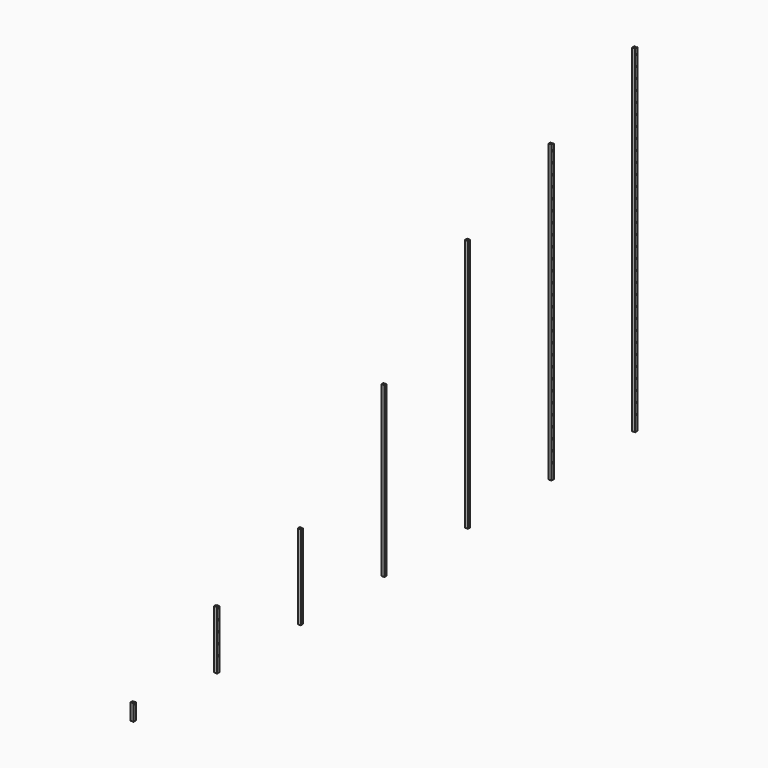
from build123d import *

# Parameters (mm, degrees)
F0_W      = 19.0000128
F0_H      = 1710.000009
F0_R      = 3.999992
F1_DEPTH  = 20.193
F0_W_2    = 18.9999874
F0_H_2    = 1994.9999978
F0_H_3    = 2280.000012
F0_H_4    = 570.000003
F0_H_5    = 1140.000006
F0_H_6    = 394.9999974
F2_W      = 6.999986
F2_H      = 16.9999914
F2_W_2    = 7.0000114
F3_DEPTH  = 2280.2509988
F4_W      = 7.0388015828
F4_H      = 16.9999914
F4_W_2    = 7.0000114
F5_DEPTH  = 2280.001012
F6_W      = 7.0007984995
F6_H      = 16.9999914
F6_W_2    = 7.0000114
F7_DEPTH  = 2280.001012
F8_W      = 7.0076418577
F8_H      = 16.9999914
F8_W_2    = 7.0000114
F9_DEPTH  = 2280.001012
F11_W     = 7.0388015828
F11_H     = 16.9999914
F11_W_2   = 7.0000114
F12_DEPTH = 2280.001012
F13_W     = 7.0388015828
F13_H     = 16.9999914
F13_W_2   = 7.0000114
F14_DEPTH = 2280.001012
F15_W     = 7.0388015828
F15_H     = 16.9999914
F15_W_2   = 7.0000114
F16_DEPTH = 2280.001012


with BuildPart() as f1:
    # F0 (on Right) → F1 (new body)
    with BuildSketch(Plane.YZ):
        with Locations((220.6641764, 629.9999973)):
            Rectangle(F0_W, F0_H)
        with Locations((221.6641744, -122.00001)):
            Circle(F0_R, mode=Mode.SUBTRACT)
        with Locations((221.6641744, -50.7500128)):
            Circle(F0_R, mode=Mode.SUBTRACT)
        with Locations((221.6641744, 20.4999844)):
            Circle(F0_R, mode=Mode.SUBTRACT)
        with Locations((221.6641744, 91.7499816)):
            Circle(F0_R, mode=Mode.SUBTRACT)
        with Locations((221.6641744, 163.0000042)):
            Circle(F0_R, mode=Mode.SUBTRACT)
        with Locations((221.6641744, 234.2500014)):
            Circle(F0_R, mode=Mode.SUBTRACT)
        with Locations((221.6641744, 305.4999986)):
            Circle(F0_R, mode=Mode.SUBTRACT)
        with Locations((221.6641744, 376.7499958)):
            Circle(F0_R, mode=Mode.SUBTRACT)
        with Locations((221.6641744, 447.999993)):
            Circle(F0_R, mode=Mode.SUBTRACT)
        with Locations((221.6641744, 519.2499902)):
            Circle(F0_R, mode=Mode.SUBTRACT)
        with Locations((221.6641744, 590.4999874)):
            Circle(F0_R, mode=Mode.SUBTRACT)
        with Locations((221.6641744, 661.7499846)):
            Circle(F0_R, mode=Mode.SUBTRACT)
        with Locations((221.6641744, 732.9999818)):
            Circle(F0_R, mode=Mode.SUBTRACT)
        with Locations((221.6641744, 804.2500044)):
            Circle(F0_R, mode=Mode.SUBTRACT)
        with Locations((221.6641744, 875.5000016)):
            Circle(F0_R, mode=Mode.SUBTRACT)
        with Locations((221.6641744, 946.7499988)):
            Circle(F0_R, mode=Mode.SUBTRACT)
        with Locations((221.6641744, 1017.999996)):
            Circle(F0_R, mode=Mode.SUBTRACT)
        with Locations((221.6641744, 1089.2499932)):
            Circle(F0_R, mode=Mode.SUBTRACT)
        with Locations((221.6641744, 1160.4999904)):
            Circle(F0_R, mode=Mode.SUBTRACT)
        with Locations((221.6641744, 1231.7499876)):
            Circle(F0_R, mode=Mode.SUBTRACT)
        with Locations((221.6641744, 1302.9999848)):
            Circle(F0_R, mode=Mode.SUBTRACT)
        with Locations((221.6641744, 1374.249982)):
            Circle(F0_R, mode=Mode.SUBTRACT)
        with Locations((221.6641744, 1445.5000046)):
            Circle(F0_R, mode=Mode.SUBTRACT)
    extrude(amount=F1_DEPTH)

    # F11 (on face) → F12 (cut, through all)
    with BuildSketch(Plane(origin=(0, 0, -225.0000072), x_dir=(1, 0, 0), z_dir=(0, 0, -1))):
        with Locations((5.5207421447, -221.6641871)):
            Rectangle(F11_W, F11_H)
        with Locations((14.6929983, -221.6641871)):
            Rectangle(F11_W_2, F11_H)
    extrude(amount=-F12_DEPTH, mode=Mode.SUBTRACT)


with BuildPart() as f1b:
    # F0 (on Right) → F1, piece 2 (new body)
    with BuildSketch(Plane.YZ):
        with Locations((925.6641761, 772.4999917)):
            Rectangle(F0_W_2, F0_H_2)
        with Locations((926.6641614, -122.00001)):
            Circle(F0_R, mode=Mode.SUBTRACT)
        with Locations((926.6641614, -50.7500128)):
            Circle(F0_R, mode=Mode.SUBTRACT)
        with Locations((926.6641614, 20.4999844)):
            Circle(F0_R, mode=Mode.SUBTRACT)
        with Locations((926.6641614, 91.7499816)):
            Circle(F0_R, mode=Mode.SUBTRACT)
        with Locations((926.6641614, 163.0000042)):
            Circle(F0_R, mode=Mode.SUBTRACT)
        with Locations((926.6641614, 234.2500014)):
            Circle(F0_R, mode=Mode.SUBTRACT)
        with Locations((926.6641614, 305.4999986)):
            Circle(F0_R, mode=Mode.SUBTRACT)
        with Locations((926.6641614, 376.7499958)):
            Circle(F0_R, mode=Mode.SUBTRACT)
        with Locations((926.6641614, 447.999993)):
            Circle(F0_R, mode=Mode.SUBTRACT)
        with Locations((926.6641614, 519.2499902)):
            Circle(F0_R, mode=Mode.SUBTRACT)
        with Locations((926.6641614, 590.4999874)):
            Circle(F0_R, mode=Mode.SUBTRACT)
        with Locations((926.6641614, 661.7499846)):
            Circle(F0_R, mode=Mode.SUBTRACT)
        with Locations((926.6641614, 732.9999818)):
            Circle(F0_R, mode=Mode.SUBTRACT)
        with Locations((926.6641614, 804.2500044)):
            Circle(F0_R, mode=Mode.SUBTRACT)
        with Locations((926.6641614, 875.5000016)):
            Circle(F0_R, mode=Mode.SUBTRACT)
        with Locations((926.6641614, 946.7499988)):
            Circle(F0_R, mode=Mode.SUBTRACT)
        with Locations((926.6641614, 1017.999996)):
            Circle(F0_R, mode=Mode.SUBTRACT)
        with Locations((926.6641614, 1089.2499932)):
            Circle(F0_R, mode=Mode.SUBTRACT)
        with Locations((926.6641614, 1160.4999904)):
            Circle(F0_R, mode=Mode.SUBTRACT)
        with Locations((926.6641614, 1231.7499876)):
            Circle(F0_R, mode=Mode.SUBTRACT)
        with Locations((926.6641614, 1302.9999848)):
            Circle(F0_R, mode=Mode.SUBTRACT)
        with Locations((926.6641614, 1374.249982)):
            Circle(F0_R, mode=Mode.SUBTRACT)
        with Locations((926.6641614, 1445.5000046)):
            Circle(F0_R, mode=Mode.SUBTRACT)
        with Locations((926.6641614, 1516.7500018)):
            Circle(F0_R, mode=Mode.SUBTRACT)
        with Locations((926.6641614, 1587.999999)):
            Circle(F0_R, mode=Mode.SUBTRACT)
        with Locations((926.6641614, 1659.2499962)):
            Circle(F0_R, mode=Mode.SUBTRACT)
        with Locations((926.6641614, 1730.4999934)):
            Circle(F0_R, mode=Mode.SUBTRACT)
    extrude(amount=F1_DEPTH)

    # F13 (on face) → F14 (cut, through all)
    with BuildSketch(Plane(origin=(0, 0, -225.0000072), x_dir=(1, 0, 0), z_dir=(0, 0, -1))):
        with Locations((5.5207421447, -926.6641741)):
            Rectangle(F13_W, F13_H)
        with Locations((14.6929983, -926.6641741)):
            Rectangle(F13_W_2, F13_H)
    extrude(amount=-F14_DEPTH, mode=Mode.SUBTRACT)


with BuildPart() as f1c:
    # F0 (on Right) → F1, piece 3 (new body)
    with BuildSketch(Plane.YZ):
        with Locations((1630.6641758, 914.9999988)):
            Rectangle(F0_W, F0_H_3)
        with Locations((1631.6641738, -122.00001)):
            Circle(F0_R, mode=Mode.SUBTRACT)
        with Locations((1631.6641738, -50.7500128)):
            Circle(F0_R, mode=Mode.SUBTRACT)
        with Locations((1631.6641738, 20.4999844)):
            Circle(F0_R, mode=Mode.SUBTRACT)
        with Locations((1631.6641738, 91.7499816)):
            Circle(F0_R, mode=Mode.SUBTRACT)
        with Locations((1631.6641738, 163.0000042)):
            Circle(F0_R, mode=Mode.SUBTRACT)
        with Locations((1631.6641738, 234.2500014)):
            Circle(F0_R, mode=Mode.SUBTRACT)
        with Locations((1631.6641738, 305.4999986)):
            Circle(F0_R, mode=Mode.SUBTRACT)
        with Locations((1631.6641738, 376.7499958)):
            Circle(F0_R, mode=Mode.SUBTRACT)
        with Locations((1631.6641738, 447.999993)):
            Circle(F0_R, mode=Mode.SUBTRACT)
        with Locations((1631.6641738, 519.2499902)):
            Circle(F0_R, mode=Mode.SUBTRACT)
        with Locations((1631.6641738, 590.4999874)):
            Circle(F0_R, mode=Mode.SUBTRACT)
        with Locations((1631.6641738, 661.7499846)):
            Circle(F0_R, mode=Mode.SUBTRACT)
        with Locations((1631.6641738, 732.9999818)):
            Circle(F0_R, mode=Mode.SUBTRACT)
        with Locations((1631.6641738, 804.2500044)):
            Circle(F0_R, mode=Mode.SUBTRACT)
        with Locations((1631.6641738, 875.5000016)):
            Circle(F0_R, mode=Mode.SUBTRACT)
        with Locations((1631.6641738, 946.7499988)):
            Circle(F0_R, mode=Mode.SUBTRACT)
        with Locations((1631.6641738, 1017.999996)):
            Circle(F0_R, mode=Mode.SUBTRACT)
        with Locations((1631.6641738, 1089.2499932)):
            Circle(F0_R, mode=Mode.SUBTRACT)
        with Locations((1631.6641738, 1160.4999904)):
            Circle(F0_R, mode=Mode.SUBTRACT)
        with Locations((1631.6641738, 1231.7499876)):
            Circle(F0_R, mode=Mode.SUBTRACT)
        with Locations((1631.6641738, 1302.9999848)):
            Circle(F0_R, mode=Mode.SUBTRACT)
        with Locations((1631.6641738, 1374.249982)):
            Circle(F0_R, mode=Mode.SUBTRACT)
        with Locations((1631.6641738, 1445.5000046)):
            Circle(F0_R, mode=Mode.SUBTRACT)
        with Locations((1631.6641738, 1516.7500018)):
            Circle(F0_R, mode=Mode.SUBTRACT)
        with Locations((1631.6641738, 1587.999999)):
            Circle(F0_R, mode=Mode.SUBTRACT)
        with Locations((1631.6641738, 1659.2499962)):
            Circle(F0_R, mode=Mode.SUBTRACT)
        with Locations((1631.6641738, 1730.4999934)):
            Circle(F0_R, mode=Mode.SUBTRACT)
        with Locations((1631.6641738, 1801.7499906)):
            Circle(F0_R, mode=Mode.SUBTRACT)
        with Locations((1631.6641738, 1872.9999878)):
            Circle(F0_R, mode=Mode.SUBTRACT)
        with Locations((1631.6641738, 1944.249985)):
            Circle(F0_R, mode=Mode.SUBTRACT)
        with Locations((1631.6641738, 2015.4999822)):
            Circle(F0_R, mode=Mode.SUBTRACT)
    extrude(amount=F1_DEPTH)

    # F15 (on face) → F16 (cut, through all)
    with BuildSketch(Plane(origin=(0, 0, -225.0000072), x_dir=(1, 0, 0), z_dir=(0, 0, -1))):
        with Locations((5.5207421447, -1631.6641865)):
            Rectangle(F15_W, F15_H)
        with Locations((14.6929983, -1631.6641865)):
            Rectangle(F15_W_2, F15_H)
    extrude(amount=-F16_DEPTH, mode=Mode.SUBTRACT)


with BuildPart() as f1d:
    # F0 (on Right) → F1, piece 4 (new body)
    with BuildSketch(Plane.YZ):
        with Locations((-1189.3358357, 59.9999943)):
            Rectangle(F0_W_2, F0_H_4)
        with Locations((-1188.335825, -122.00001)):
            Circle(F0_R, mode=Mode.SUBTRACT)
        with Locations((-1188.335825, -50.7500128)):
            Circle(F0_R, mode=Mode.SUBTRACT)
        with Locations((-1188.335825, 20.4999844)):
            Circle(F0_R, mode=Mode.SUBTRACT)
        with Locations((-1188.335825, 91.7499816)):
            Circle(F0_R, mode=Mode.SUBTRACT)
        with Locations((-1188.335825, 163.0000042)):
            Circle(F0_R, mode=Mode.SUBTRACT)
        with Locations((-1188.335825, 234.2500014)):
            Circle(F0_R, mode=Mode.SUBTRACT)
        with Locations((-1188.335825, 305.4999986)):
            Circle(F0_R, mode=Mode.SUBTRACT)
    extrude(amount=F1_DEPTH)

    # F6 (on face) → F7 (cut, through all)
    with BuildSketch(Plane(origin=(0, 0, -225.0000072), x_dir=(1, 0, 0), z_dir=(0, 0, -1))):
        with Locations((5.5017406031, 1188.3358377)):
            Rectangle(F6_W, F6_H)
        with Locations((14.6929983, 1188.3358377)):
            Rectangle(F6_W_2, F6_H)
    extrude(amount=-F7_DEPTH, mode=Mode.SUBTRACT)


with BuildPart() as f1e:
    # F0 (on Right) → F1, piece 5 (new body)
    with BuildSketch(Plane.YZ):
        with Locations((-484.3358233, 344.9999958)):
            Rectangle(F0_W_2, F0_H_5)
        with Locations((-483.335838, -122.00001)):
            Circle(F0_R, mode=Mode.SUBTRACT)
        with Locations((-483.335838, -50.7500128)):
            Circle(F0_R, mode=Mode.SUBTRACT)
        with Locations((-483.335838, 20.4999844)):
            Circle(F0_R, mode=Mode.SUBTRACT)
        with Locations((-483.335838, 91.7499816)):
            Circle(F0_R, mode=Mode.SUBTRACT)
        with Locations((-483.335838, 163.0000042)):
            Circle(F0_R, mode=Mode.SUBTRACT)
        with Locations((-483.335838, 234.2500014)):
            Circle(F0_R, mode=Mode.SUBTRACT)
        with Locations((-483.335838, 305.4999986)):
            Circle(F0_R, mode=Mode.SUBTRACT)
        with Locations((-483.335838, 376.7499958)):
            Circle(F0_R, mode=Mode.SUBTRACT)
        with Locations((-483.335838, 447.999993)):
            Circle(F0_R, mode=Mode.SUBTRACT)
        with Locations((-483.335838, 519.2499902)):
            Circle(F0_R, mode=Mode.SUBTRACT)
        with Locations((-483.335838, 590.4999874)):
            Circle(F0_R, mode=Mode.SUBTRACT)
        with Locations((-483.335838, 661.7499846)):
            Circle(F0_R, mode=Mode.SUBTRACT)
        with Locations((-483.335838, 732.9999818)):
            Circle(F0_R, mode=Mode.SUBTRACT)
        with Locations((-483.335838, 804.2500044)):
            Circle(F0_R, mode=Mode.SUBTRACT)
        with Locations((-483.335838, 875.5000016)):
            Circle(F0_R, mode=Mode.SUBTRACT)
    extrude(amount=F1_DEPTH)

    # F8 (on face) → F9 (cut, through all)
    with BuildSketch(Plane(origin=(0, 0, -225.0000072), x_dir=(1, 0, 0), z_dir=(0, 0, -1))):
        with Locations((5.5051622822, 483.3358253)):
            Rectangle(F8_W, F8_H)
        with Locations((14.6929983, 483.3358253)):
            Rectangle(F8_W_2, F8_H)
    extrude(amount=-F9_DEPTH, mode=Mode.SUBTRACT)


with BuildPart() as f1f:
    # F0 (on Right) → F1, piece 6 (new body)
    with BuildSketch(Plane.YZ):
        with Locations((-1894.3358354, -27.5000085)):
            Rectangle(F0_W, F0_H_6)
        with Locations((-1893.3358374, -122.00001)):
            Circle(F0_R, mode=Mode.SUBTRACT)
        with Locations((-1893.3358374, -50.7500128)):
            Circle(F0_R, mode=Mode.SUBTRACT)
        with Locations((-1893.3358374, 20.4999844)):
            Circle(F0_R, mode=Mode.SUBTRACT)
        with Locations((-1893.3358374, 91.7499816)):
            Circle(F0_R, mode=Mode.SUBTRACT)
        with Locations((-1893.3358374, 163.0000042)):
            Circle(F0_R, mode=Mode.SUBTRACT)
    extrude(amount=F1_DEPTH)

    # F4 (on face) → F5 (cut, through all)
    with BuildSketch(Plane(origin=(0, 0, -225.0000072), x_dir=(1, 0, 0), z_dir=(0, 0, -1))):
        with Locations((5.5207421447, 1893.3358247)):
            Rectangle(F4_W, F4_H)
        with Locations((14.6929983, 1893.3358247)):
            Rectangle(F4_W_2, F4_H)
    extrude(amount=-F5_DEPTH, mode=Mode.SUBTRACT)


with BuildPart() as f1g:
    # F0 (on Right) → F1, piece 7 (new body)
    with BuildSketch(Plane.YZ):
        Polygon((-2589.6358418, -225.249994), (-2589.6358418, -115.2500108), (-2608.6358292, -115.2500108), (-2608.6358292, -201.0000044), (-2608.6358292, -225.0000072), (-2608.6358292, -225.249994), align=None)
        with Locations((-2597.5870578, -122.2499968)):
            Circle(F0_R, mode=Mode.SUBTRACT)
    extrude(amount=F1_DEPTH)

    # F2 (on face) → F3 (cut, through all)
    with BuildSketch(Plane(origin=(0, 0, -225.249994), x_dir=(1, 0, 0), z_dir=(0, 0, -1))):
        with Locations((5.5013343533, 2598.1358375)):
            Rectangle(F2_W, F2_H)
        with Locations((14.6929983, 2598.1358375)):
            Rectangle(F2_W_2, F2_H)
    extrude(amount=-F3_DEPTH, mode=Mode.SUBTRACT)


solid = Compound([f1.part, f1b.part, f1c.part, f1d.part, f1e.part, f1f.part, f1g.part])
